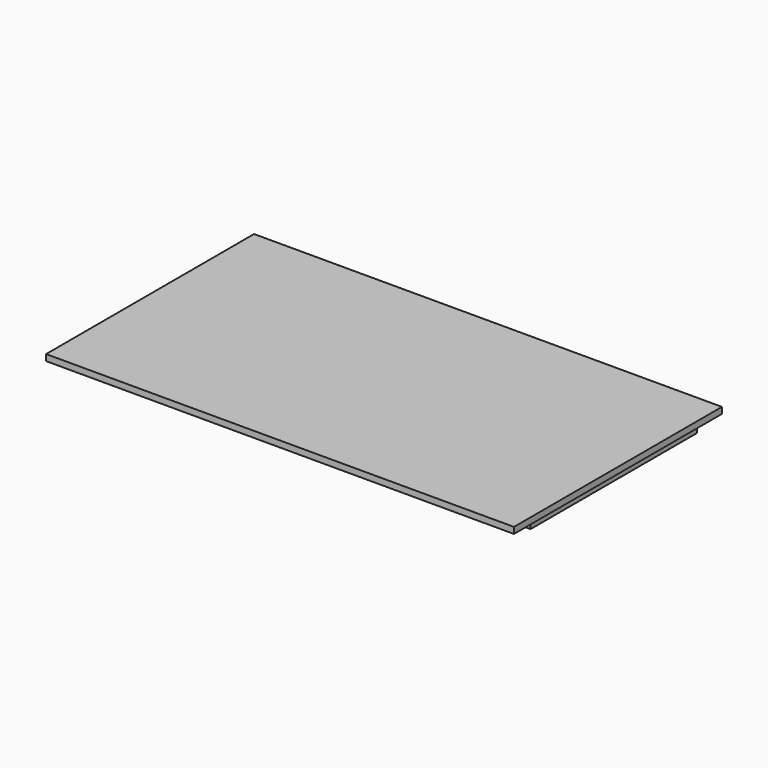
from build123d import *

# Parameters (mm, degrees)
F0_W     = 900
F0_H     = 500
F1_DEPTH = 12
F2_W     = 18
F2_H     = 400
F2_W_2   = 40
F3_DEPTH = 18


with BuildPart() as f1:
    # F0 (on Top) → F1 (new body)
    with BuildSketch(Plane.XY):
        with Locations((4.295841, -173.720773)):
            Rectangle(F0_W, F0_H)
    extrude(amount=F1_DEPTH)


with BuildPart() as f3:
    # F2 (on face) → F3 (new body)
    with BuildSketch(Plane(origin=(0, 0, 0), x_dir=(1, 0, 0), z_dir=(0, 0, -1))):
        with Locations((-424.704159, 170.300724)):
            Rectangle(F2_W, F2_H)
        with Locations((422.295841, 168.856679)):
            Rectangle(F2_W_2, F2_H)
    extrude(amount=F3_DEPTH)


solid = Compound([f1.part, f3.part])
